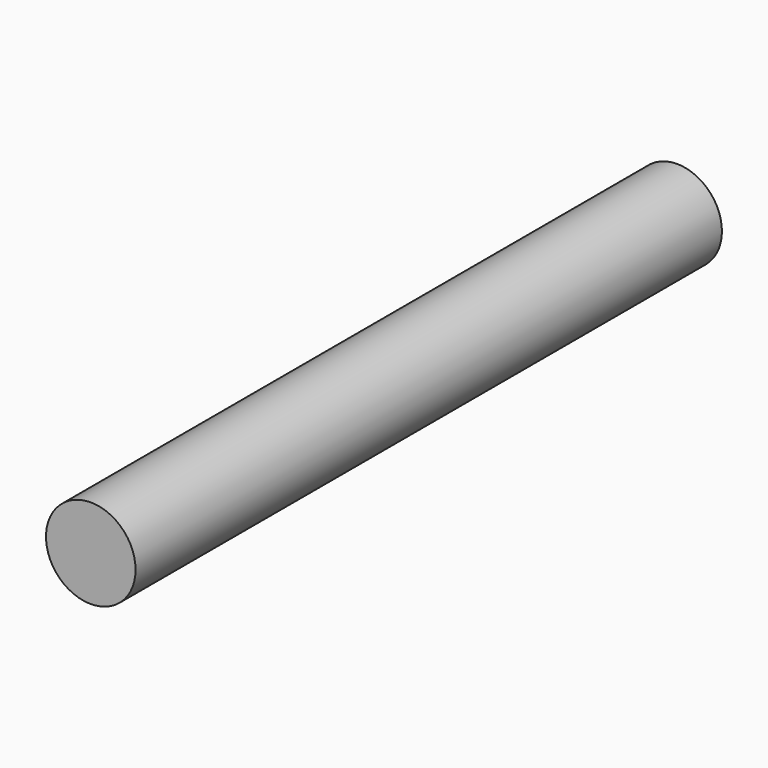
from build123d import *

# Parameters (mm, degrees)
F0_R      = 12.022455
F1_DEPTH  = 105.325786
F1_FACE_R = 12.022455
F2_DEPTH  = 91.423245


with BuildPart() as f1:
    # F0 (on Front) → F1 (new body)
    with BuildSketch(Plane.XZ):
        Circle(F0_R)
    extrude(amount=F1_DEPTH)

    # F1_face (on face) → F2 (join)
    with BuildSketch(Plane(origin=(0, 0, 0), x_dir=(1, 0, 0), z_dir=(0, 1, 0))):
        Circle(F1_FACE_R)
    extrude(amount=F2_DEPTH)


solid = f1.part
